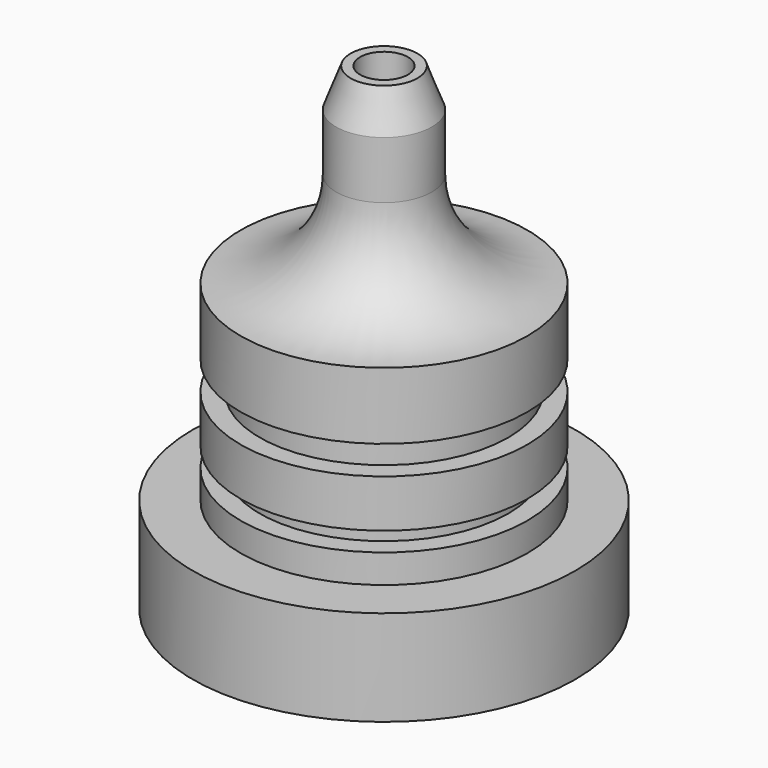
from build123d import *


with BuildPart() as f1:
    # F0 (on Front) → F1 (revolve)
    with BuildSketch(Plane.XZ):
        with BuildLine():
            Line((3.5, 0), (2.5, 0))
            Line((2.5, 0), (2.5, -10))
            Line((2.5, -10), (2, -12))
            Line((2, -12), (0, -12))
            Line((0, -12), (0, -50))
            Line((0, -50), (20, -50))
            Line((20, -50), (20, -40))
            Line((20, -40), (15, -40))
            Line((15, -40), (15, -37))
            Line((15, -37), (13, -37))
            Line((13, -37), (13, -35))
            Line((13, -35), (15, -35))
            Line((15, -35), (15, -30))
            Line((15, -30), (13, -30))
            Line((13, -30), (13, -27))
            Line((13, -27), (15, -27))
            Line((15, -27), (15, -20))
            ThreePointArc((15, -20), (7.9289321881, -17.0710678119), (5, -10))
            Line((5, -10), (5, -4))
            Line((5, -4), (3.5, 0))
        make_face()
    revolve(axis=Axis((0, 0, -25), (0, 0, 1)))


solid = f1.part
